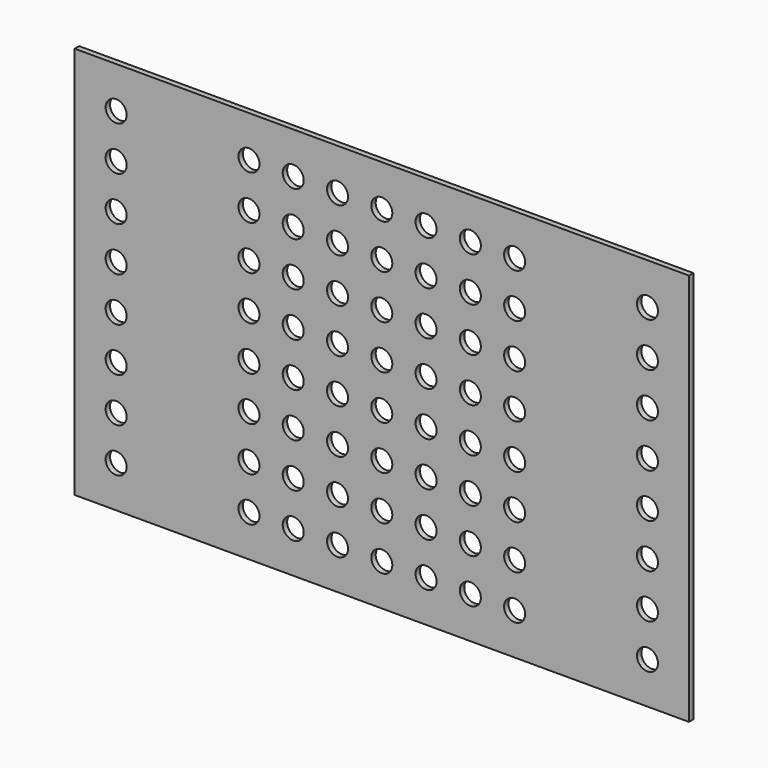
from build123d import *

# Parameters (mm, degrees)
F0_W          = 555
F0_H          = 355
F1_DEPTH      = 2.5
F2_R          = 9.5
F3_DEPTH      = 2.501
F3_DEPTH_BACK = 2.501


with BuildPart() as f1:
    # F0 (on Front) → F1 (new body, symmetric)
    with BuildSketch(Plane.XZ):
        Rectangle(F0_W, F0_H)
    extrude(amount=F1_DEPTH, both=True)

    # F2 (on Front) → F3 (cut, two sides)
    with BuildSketch(Plane.XZ) as f3_sk:
        with Locations((-240, -140)):
            Circle(F2_R)
        with Locations((-240, -100)):
            Circle(F2_R)
        with Locations((-240, -60)):
            Circle(F2_R)
        with Locations((-120, -140)):
            Circle(F2_R)
        with Locations((-120, -100)):
            Circle(F2_R)
        with Locations((-120, -60)):
            Circle(F2_R)
        with Locations((-80, -140)):
            Circle(F2_R)
        with Locations((-80, -100)):
            Circle(F2_R)
        with Locations((-80, -60)):
            Circle(F2_R)
        with Locations((-240, -20)):
            Circle(F2_R)
        with Locations((-120, -20)):
            Circle(F2_R)
        with Locations((-80, -20)):
            Circle(F2_R)
        with Locations((-40, -140)):
            Circle(F2_R)
        with Locations((-40, -100)):
            Circle(F2_R)
        with Locations((-40, -60)):
            Circle(F2_R)
        with Locations((-40, -20)):
            Circle(F2_R)
        with Locations((0, -140)):
            Circle(F2_R)
        with Locations((0, -100)):
            Circle(F2_R)
        with Locations((0, -60)):
            Circle(F2_R)
        with Locations((0, -20)):
            Circle(F2_R)
        with Locations((40, -140)):
            Circle(F2_R)
        with Locations((40, -100)):
            Circle(F2_R)
        with Locations((40, -60)):
            Circle(F2_R)
        with Locations((40, -20)):
            Circle(F2_R)
        with Locations((80, -140)):
            Circle(F2_R)
        with Locations((80, -100)):
            Circle(F2_R)
        with Locations((80, -60)):
            Circle(F2_R)
        with Locations((80, -20)):
            Circle(F2_R)
        with Locations((120, -140)):
            Circle(F2_R)
        with Locations((120, -100)):
            Circle(F2_R)
        with Locations((120, -60)):
            Circle(F2_R)
        with Locations((120, -20)):
            Circle(F2_R)
        with Locations((-240, 20)):
            Circle(F2_R)
        with Locations((-240, 60)):
            Circle(F2_R)
        with Locations((-240, 100)):
            Circle(F2_R)
        with Locations((-240, 140)):
            Circle(F2_R)
        with Locations((-120, 20)):
            Circle(F2_R)
        with Locations((-120, 60)):
            Circle(F2_R)
        with Locations((-120, 100)):
            Circle(F2_R)
        with Locations((-120, 140)):
            Circle(F2_R)
        with Locations((-80, 20)):
            Circle(F2_R)
        with Locations((-80, 60)):
            Circle(F2_R)
        with Locations((-80, 100)):
            Circle(F2_R)
        with Locations((-80, 140)):
            Circle(F2_R)
        with Locations((-40, 20)):
            Circle(F2_R)
        with Locations((-40, 60)):
            Circle(F2_R)
        with Locations((-40, 100)):
            Circle(F2_R)
        with Locations((-40, 140)):
            Circle(F2_R)
        with Locations((0, 20)):
            Circle(F2_R)
        with Locations((0, 60)):
            Circle(F2_R)
        with Locations((0, 100)):
            Circle(F2_R)
        with Locations((0, 140)):
            Circle(F2_R)
        with Locations((40, 20)):
            Circle(F2_R)
        with Locations((40, 60)):
            Circle(F2_R)
        with Locations((40, 100)):
            Circle(F2_R)
        with Locations((40, 140)):
            Circle(F2_R)
        with Locations((80, 20)):
            Circle(F2_R)
        with Locations((80, 60)):
            Circle(F2_R)
        with Locations((80, 100)):
            Circle(F2_R)
        with Locations((80, 140)):
            Circle(F2_R)
        with Locations((120, 20)):
            Circle(F2_R)
        with Locations((120, 60)):
            Circle(F2_R)
        with Locations((120, 100)):
            Circle(F2_R)
        with Locations((120, 140)):
            Circle(F2_R)
        with Locations((240, -140)):
            Circle(F2_R)
        with Locations((240, -100)):
            Circle(F2_R)
        with Locations((240, -60)):
            Circle(F2_R)
        with Locations((240, -20)):
            Circle(F2_R)
        with Locations((240, 20)):
            Circle(F2_R)
        with Locations((240, 60)):
            Circle(F2_R)
        with Locations((240, 100)):
            Circle(F2_R)
        with Locations((240, 140)):
            Circle(F2_R)
    extrude(amount=F3_DEPTH, mode=Mode.SUBTRACT)
    extrude(f3_sk.sketch, amount=-F3_DEPTH_BACK, mode=Mode.SUBTRACT)


solid = f1.part
